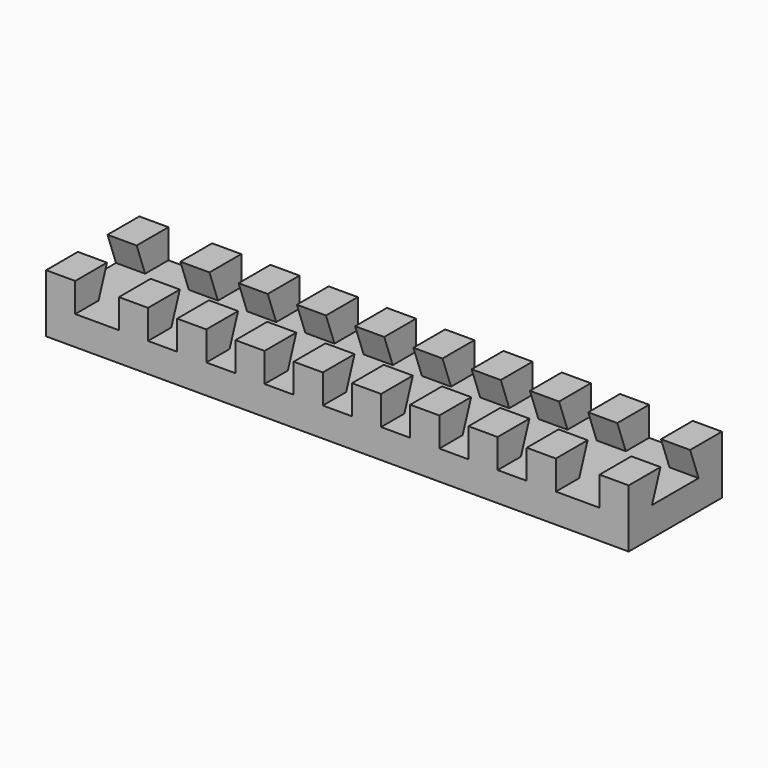
from build123d import *

# Parameters (mm, degrees)
F0_W     = 100
F0_H     = 20
F1_DEPTH = 10
F3_DEPTH = 100.001
F4_W     = 7.5
F4_H     = 5
F4_W_2   = 5
F5_DEPTH = 20.001


with BuildPart() as f1:
    # F0 (on Top) → F1 (new body)
    with BuildSketch(Plane.XY):
        Rectangle(F0_W, F0_H)
    extrude(amount=F1_DEPTH)

    # F2 (on face) → F3 (cut, through all)
    with BuildSketch(Plane.YZ.offset(50)):
        Polygon((3.180149, 10), (-3.180149, 10), (-5, 5), (5, 5), align=None)
    extrude(amount=-F3_DEPTH, mode=Mode.SUBTRACT)

    # F4 (on face) → F5 (cut, through all)
    with BuildSketch(Plane.XZ.offset(10)):
        with Locations((-41.25, 7.5)):
            Rectangle(F4_W, F4_H)
        with Locations((-30, 7.5)):
            Rectangle(F4_W_2, F4_H)
        with Locations((-20, 7.5)):
            Rectangle(F4_W_2, F4_H)
        with Locations((-10, 7.5)):
            Rectangle(F4_W_2, F4_H)
        with Locations((0, 7.5)):
            Rectangle(F4_W_2, F4_H)
        with Locations((10, 7.5)):
            Rectangle(F4_W_2, F4_H)
        with Locations((20, 7.5)):
            Rectangle(F4_W_2, F4_H)
        with Locations((30, 7.5)):
            Rectangle(F4_W_2, F4_H)
        with Locations((41.25, 7.5)):
            Rectangle(F4_W, F4_H)
    extrude(amount=-F5_DEPTH, mode=Mode.SUBTRACT)


solid = f1.part
